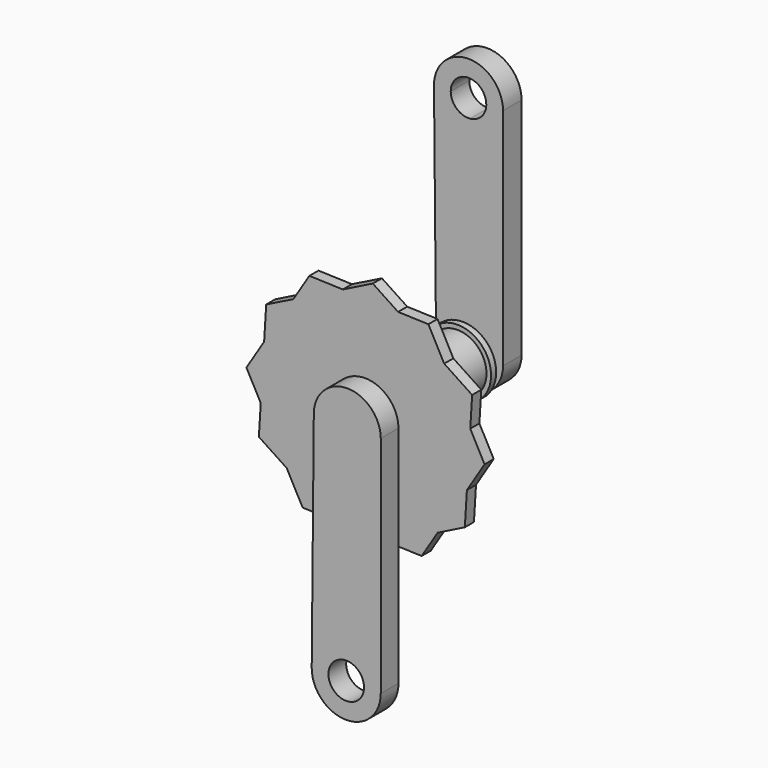
from build123d import *

# Parameters (mm, degrees)
F0_R      = 22
F1_DEPTH  = 73
F2_R      = 25.141688448
F3_DEPTH  = 5.334
F4_R      = 25.4700535037
F5_DEPTH  = 4.826
F6_R      = 13.3067091681
F7_DEPTH  = 25.4
F8_R      = 13.4107525154
F9_DEPTH  = 25.4
F11_DEPTH = 16.764
F13_DEPTH = 17.526
F15_DEPTH = 8.636


with BuildPart() as f1:
    # F0 (on Front) → F1 (new body)
    with BuildSketch(Plane.XZ):
        Circle(F0_R)
    extrude(amount=F1_DEPTH)

    # F2 (on face) → F3 (join)
    with BuildSketch(Plane.XZ.offset(73)):
        Circle(F2_R)
    extrude(amount=F3_DEPTH)

    # F4 (on face) → F5 (join)
    with BuildSketch(Plane(origin=(0, 0, 0), x_dir=(-1, 0, 0), z_dir=(0, 1, 0))):
        Circle(F4_R)
    extrude(amount=F5_DEPTH)


with BuildPart() as f7:
    # F6 (on face) → F7 (new body)
    with BuildSketch(Plane(origin=(0, 4.826, 0), x_dir=(-1, 0, 0), z_dir=(0, 1, 0))):
        Circle(F6_R)
    extrude(amount=F7_DEPTH)

    # F12 (on face) → F13 (join)
    with BuildSketch(Plane(origin=(0, 30.226, 0), x_dir=(-1, 0, 0), z_dir=(0, 1, 0))):
        with BuildLine():
            Line((-24.354988928, 0.7480883902), (0.6075108098, 0.7480883902))
            Line((0.6075108098, 0.7480883902), (0.6075108098, 157.3410739564))
            ThreePointArc((0.6075108098, 157.3410739564), (-8.1445009129, 161.654541128), (-11.6816051556, 170.7480883902))
            Line((-11.6816051556, 170.7480883902), (-24.354988928, 170.7480883902))
            Line((-24.354988928, 170.7480883902), (-24.354988928, 0.7480883902))
        make_face()
        with BuildLine():
            Line((26.3235455053, 0.7480883902), (0.6075108098, 0.7480883902))
            Line((0.6075108098, 0.7480883902), (-24.354988928, 0.7480883902))
            ThreePointArc((-24.354988928, 0.7480883902), (0.9842782886, -24.3560850854), (26.3235455053, 0.7480883902))
        make_face()
        with BuildLine():
            Line((0.6075108098, 157.3410739564), (0.6075108098, 0.7480883902))
            Line((0.6075108098, 0.7480883902), (26.3235455053, 0.7480883902))
            Line((26.3235455053, 0.7480883902), (27.9073545741, 170.6612540395))
            Line((27.9073545741, 170.6612540395), (15.2340346622, 170.7015648748))
            ThreePointArc((15.2340346622, 170.7015648748), (10.8526407, 160.8116292201), (0.6075108098, 157.3410739564))
        make_face()
        with BuildLine():
            Line((-24.354988928, 170.7480883902), (-11.6816051556, 170.7480883902))
            ThreePointArc((-11.6816051556, 170.7480883902), (1.7762549611, 184.2059485069), (15.2341150778, 170.7480883902))
            ThreePointArc((15.2341150778, 170.7480883902), (15.2340949738, 170.7248265978), (15.2340346622, 170.7015648748))
            Line((15.2340346622, 170.7015648748), (27.9073545741, 170.6612540395))
            ThreePointArc((27.9073545741, 170.6612540395), (1.8196721964, 196.8792962103), (-24.354988928, 170.7480883902))
        make_face()
    extrude(amount=-F13_DEPTH)


with BuildPart() as f9:
    # F8 (on face) → F9 (new body)
    with BuildSketch(Plane.XZ.offset(78.334)):
        Circle(F8_R)
    extrude(amount=F9_DEPTH)


with BuildPart() as f11:
    # F10 (on face) → F11 (new body)
    with BuildSketch(Plane.XZ.offset(103.734)):
        with BuildLine():
            Line((24.9624997377, 0), (0, 0))
            Line((0, 0), (0, -156.5929855662))
            ThreePointArc((0, -156.5929855662), (8.7520117226, -160.9064527378), (12.2891159654, -170))
            Line((12.2891159654, -170), (24.9624997377, -170))
            Line((24.9624997377, -170), (24.9624997377, 0))
        make_face()
        with BuildLine():
            Line((-25.7160346955, 0), (0, 0))
            Line((0, 0), (24.9624997377, 0))
            ThreePointArc((24.9624997377, 0), (-0.3767674789, 25.1041734756), (-25.7160346955, 0))
        make_face()
        with BuildLine():
            Line((0, -156.5929855662), (0, 0))
            Line((0, 0), (-25.7160346955, 0))
            Line((-25.7160346955, 0), (-27.2998437643, -169.9131656493))
            Line((-27.2998437643, -169.9131656493), (-14.6265238524, -169.9534764846))
            ThreePointArc((-14.6265238524, -169.9534764846), (-10.2451298902, -160.0635408299), (0, -156.5929855662))
        make_face()
        with BuildLine():
            Line((24.9624997377, -170), (12.2891159654, -170))
            ThreePointArc((12.2891159654, -170), (-1.1920059438, -183.4578400128), (-14.6265238524, -169.9534764846))
            Line((-14.6265238524, -169.9534764846), (-27.2998437643, -169.9131656493))
            ThreePointArc((-27.2998437643, -169.9131656493), (-1.2121613866, -196.13120782), (24.9624997377, -170))
        make_face()
    extrude(amount=-F11_DEPTH)


with BuildPart() as f15:
    # F14 (on face) → F15 (new body)
    with BuildSketch(Plane.XZ.offset(78.334)):
        Polygon((59.5593075378, 54.2054606984), (47.6064203831, 76.5652511255), (24.6660799297, 77.3151775524), align=None)
        Polygon((80.697740251, 40.2055177804), (59.5593075378, 54.2054606984), (79.2899478234, 17.2961369453), align=None)
        Polygon((79.2899478234, 17.2961369453), (59.5593075378, 54.2054606984), (24.6660799297, 77.3151775524), (-17.1636522197, 78.6826037088), (-54.6238678937, 60.0190406071), (-76.7229597576, 24.4771430104), (-79.2899478234, -17.2961369453), (-59.5593075378, -54.2054606984), (-24.6660799297, -77.3151775524), (17.1636522197, -78.6826037088), (54.6238678937, -60.0190406071), (76.7229597576, -24.4771430104), align=None)
        Polygon((-17.1636522197, 78.6826037088), (24.6660799297, 77.3151775524), (5.5298703554, 89.9890519755), align=None)
        Polygon((90.1106627134, -2.9457438723), (79.2899478234, 17.2961369453), (76.7229597576, -24.4771430104), align=None)
        Polygon((-54.6238678937, 60.0190406071), (-17.1636522197, 78.6826037088), (-42.5042423302, 79.5109949978), align=None)
        Polygon((75.1678698956, -49.7835341952), (76.7229597576, -24.4771430104), (54.6238678937, -60.0190406071), align=None)
        Polygon((-76.7229597576, 24.4771430104), (-54.6238678937, 60.0190406071), (-75.1678698956, 49.7835341952), align=None)
        Polygon((42.5042423302, -79.5109949978), (54.6238678937, -60.0190406071), (17.1636522197, -78.6826037088), align=None)
        Polygon((-79.2899478234, -17.2961369453), (-76.7229597576, 24.4771430104), (-90.1106627134, 2.9457438723), align=None)
        Polygon((-5.5298703554, -89.9890519755), (17.1636522197, -78.6826037088), (-24.6660799297, -77.3151775524), align=None)
        Polygon((-59.5593075378, -54.2054606984), (-79.2899478234, -17.2961369453), (-80.697740251, -40.2055177804), align=None)
        Polygon((-47.6064203831, -76.5652511255), (-24.6660799297, -77.3151775524), (-59.5593075378, -54.2054606984), align=None)
    extrude(amount=F15_DEPTH)


solid = Compound([f1.part, f7.part, f9.part, f11.part, f15.part])
